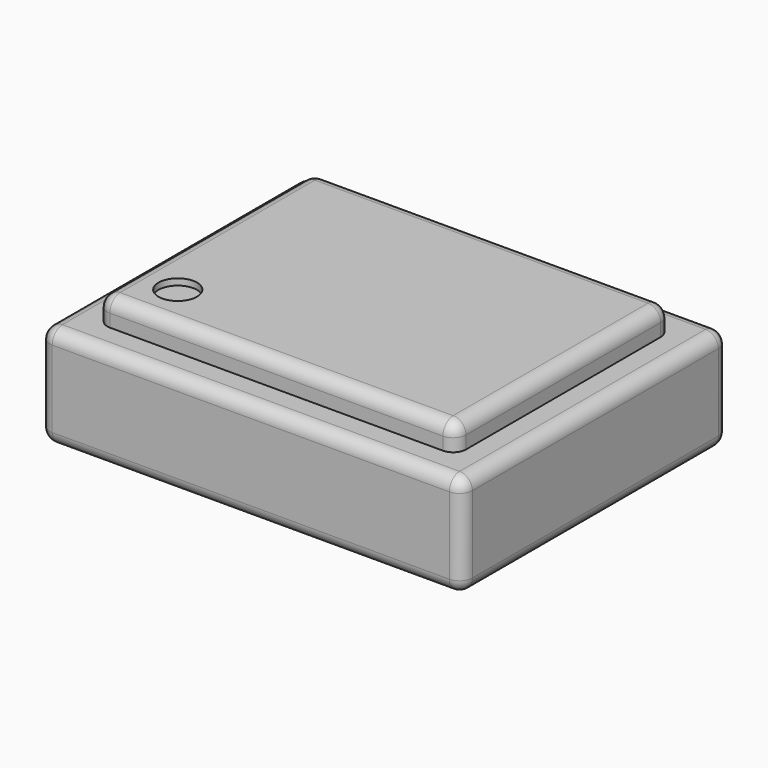
from build123d import *

# Parameters (mm, degrees)
SKETCH_W     = 3.3
SKETCH_H     = 2.6
PAD_DEPTH    = 0.8
SKETCH001_W  = 2.8
SKETCH001_H  = 2.1
PAD001_DEPTH = 0.2
FILLET_R     = 0.1
FILLET001_R  = 0.1
SKETCH002_R  = 0.15
POCKET_DEPTH = 0.05
SKETCH003_W  = 0.6
SKETCH003_H  = 0.85
PAD002_DEPTH = 0.01


with BuildPart() as part:
    # Sketch → Pad (new body)
    with BuildSketch(Plane.XY):
        Rectangle(SKETCH_W, SKETCH_H)
    extrude(amount=PAD_DEPTH)

    # Sketch001 → Pad001 (new body)
    with BuildSketch(Plane.XY.offset(0.8)):
        Rectangle(SKETCH001_W, SKETCH001_H)
    extrude(amount=PAD001_DEPTH)

    # Fillet
    fillet_edges = [part.edges().sort_by_distance(p)[0] for p in [
        (1.4, 0, 1),
        (0, -1.05, 1),
        (-1.4, 0, 1),
        (0, 1.05, 1),
        (1.4, 1.05, 0.9),
        (1.4, -1.05, 0.9),
        (-1.4, -1.05, 0.9),
        (-1.4, 1.05, 0.9),
    ]]
    fillet(fillet_edges, radius=FILLET_R)

    # Fillet001
    fillet001_edges = [part.edges().sort_by_distance(p)[0] for p in [
        (-1.65, 0, 0.8),
        (0, -1.3, 0.8),
        (-1.65, -1.3, 0.4),
        (1.65, -1.3, 0.4),
        (1.65, 1.3, 0.4),
        (-1.65, 1.3, 0.4),
        (0, 1.3, 0.8),
        (1.65, 0, 0.8),
        (1.65, 0, 0),
        (0, 1.3, 0),
        (-1.65, 0, 0),
        (0, -1.3, 0),
    ]]
    fillet(fillet001_edges, radius=FILLET001_R)

    # Sketch002 → Pocket (cut)
    with BuildSketch(Plane.XY.offset(1)):
        with Locations((-1.05, -0.7)):
            Circle(SKETCH002_R)
    extrude(amount=-POCKET_DEPTH, mode=Mode.SUBTRACT)

    # Sketch003 → Pad002 (new body)
    with BuildSketch(Plane(origin=(0, 0, 0), x_dir=(1, 0, 0), z_dir=(0, 0, -1))):
        with Locations((1.2, 0.725)):
            Rectangle(SKETCH003_W, SKETCH003_H)
        with Locations((1.2, -0.725)):
            Rectangle(SKETCH003_W, SKETCH003_H)
        with Locations((-1.2, -0.725)):
            Rectangle(SKETCH003_W, SKETCH003_H)
        with Locations((-1.2, 0.725)):
            Rectangle(SKETCH003_W, SKETCH003_H)
    extrude(amount=PAD002_DEPTH)


solid = part.part
